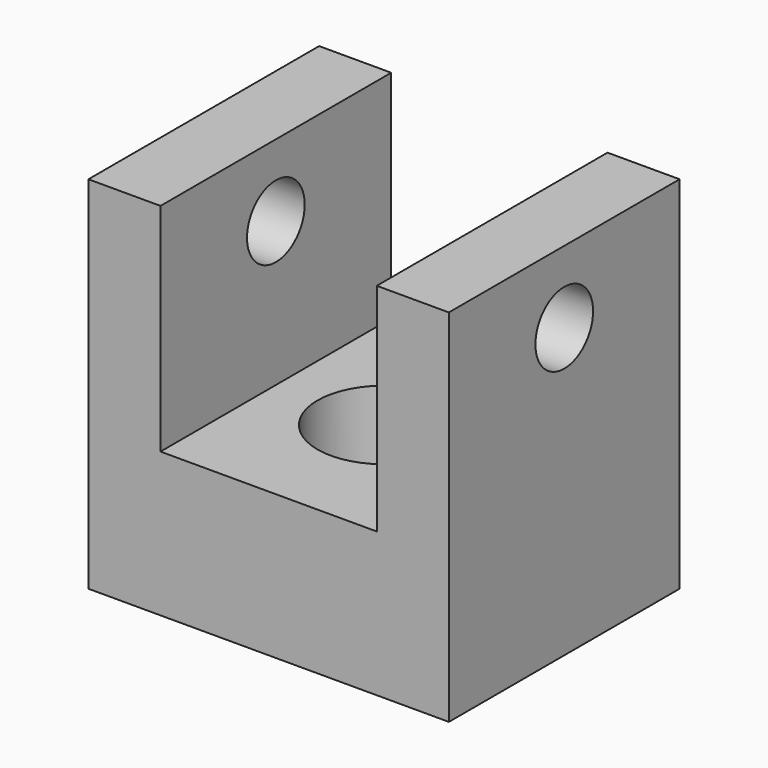
from build123d import *

# Parameters (mm, degrees)
F1_DEPTH = 25.4
F3_D     = 12.7
F5_D     = 23.41626


with BuildPart() as f1:
    # F0 (on Front) → F1 (new body, symmetric)
    with BuildSketch(Plane.XZ):
        Polygon((-19.05, 31.75), (-31.75, 31.75), (-31.75, -31.75), (31.75, -31.75), (31.75, 31.75), (19.05, 31.75), (19.05, -6.35), (-19.05, -6.35), align=None)
    extrude(amount=F1_DEPTH, both=True)

    # F3 (through all)
    with Locations(Plane(origin=(-31.75, 0, 0), x_dir=(0, -1, 0), z_dir=(-1, 0, 0))):
        with Locations((0, 19.05)):
            Hole(F3_D / 2)

    # F5 (through all)
    with Locations(Plane.XY.offset(-6.35)):
        with Locations((0, 0)):
            Hole(F5_D / 2)


solid = f1.part
